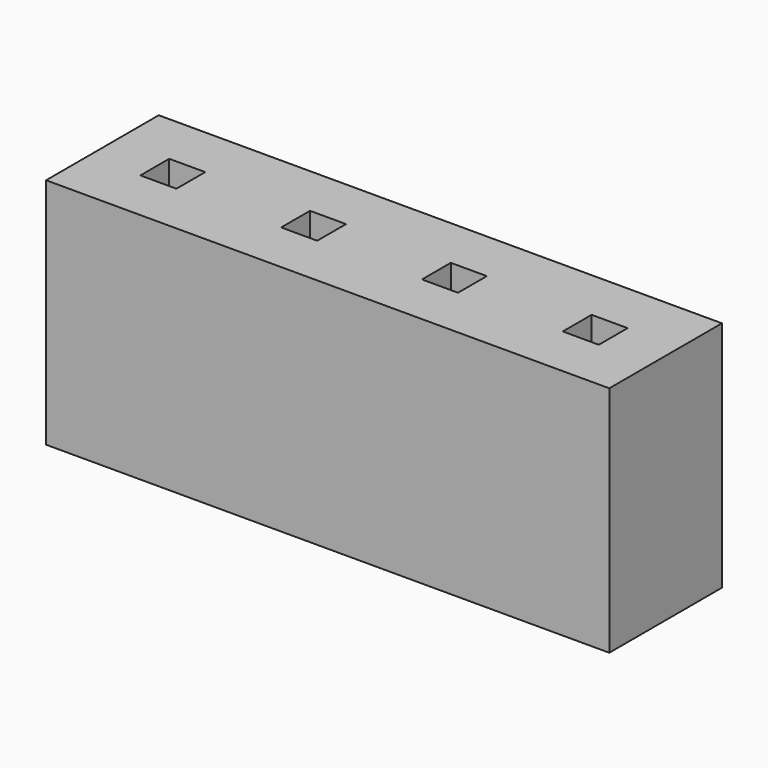
from build123d import *

# Parameters (mm, degrees)
F0_W     = 0.65
F0_H     = 0.65
F1_DEPTH = 4.2


with BuildPart() as f1:
    # F0 (on Top) → F1 (new body)
    with BuildSketch(Plane.XY):
        Polygon((-71.271986, 0), (-68.731986, 0), (-68.731986, 0.4), (-68.731986, 1.6), (-68.731986, 2.54), (-71.271986, 2.54), align=None)
        with Locations((-70.001986, 1.27)):
            Rectangle(F0_W, F0_H, mode=Mode.SUBTRACT)
        Polygon((-68.731986, 0.4), (-68.731986, 0), (-66.191986, 0), (-66.191986, 0.4), (-66.191986, 1.6), (-66.191986, 2.54), (-68.731986, 2.54), (-68.731986, 1.6), align=None)
        with Locations((-67.461986, 1.27)):
            Rectangle(F0_W, F0_H, mode=Mode.SUBTRACT)
        Polygon((-66.191986, 0.4), (-66.191986, 0), (-63.651986, 0), (-63.651986, 0.4), (-63.651986, 1.6), (-63.651986, 2.54), (-66.191986, 2.54), (-66.191986, 1.6), align=None)
        with Locations((-64.921986, 1.27)):
            Rectangle(F0_W, F0_H, mode=Mode.SUBTRACT)
        Polygon((-63.651986, 0.4), (-63.651986, 0), (-61.111986, 0), (-61.111986, 0.4), (-61.111986, 1.6), (-61.111986, 2.54), (-63.651986, 2.54), (-63.651986, 1.6), align=None)
        with Locations((-62.381986, 1.27)):
            Rectangle(F0_W, F0_H, mode=Mode.SUBTRACT)
    extrude(amount=F1_DEPTH)


solid = f1.part
